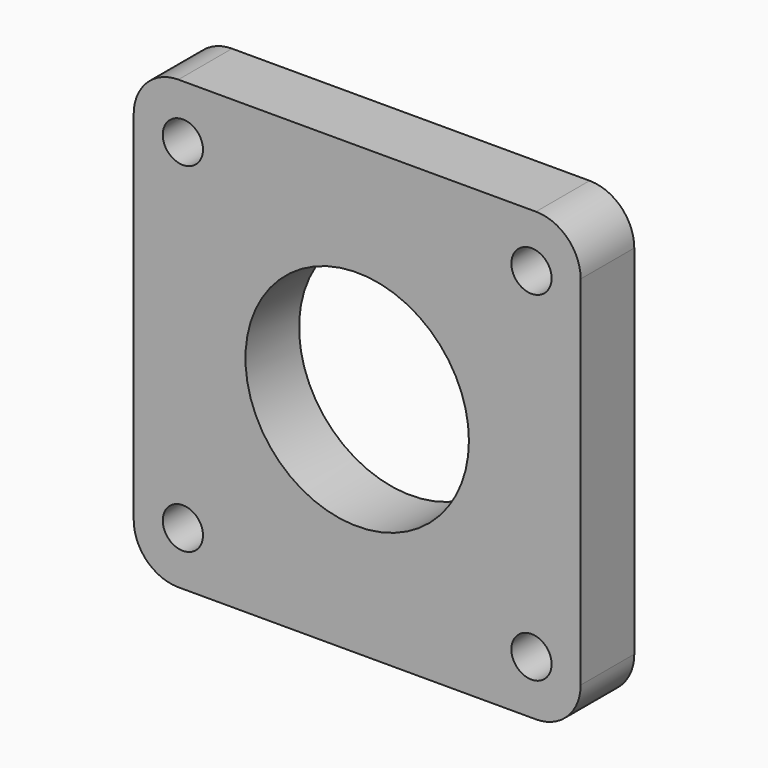
from build123d import *

# Parameters (mm, degrees)
F0_R     = 4.5
F0_R_2   = 25
F1_DEPTH = 15


with BuildPart() as f1:
    # F0 (on Front) → F1 (new body)
    with BuildSketch(Plane.XZ):
        with BuildLine():
            Line((40, 50), (-40, 50))
            ThreePointArc((-40, 50), (-47.071068, 47.071068), (-50, 40))
            Line((-50, 40), (-50, -40))
            ThreePointArc((-50, -40), (-47.071068, -47.071068), (-40, -50))
            Line((-40, -50), (40, -50))
            ThreePointArc((40, -50), (47.071068, -47.071068), (50, -40))
            Line((50, -40), (50, 40))
            ThreePointArc((50, 40), (47.071068, 47.071068), (40, 50))
        make_face()
        with Locations((-39, -38)):
            Circle(F0_R, mode=Mode.SUBTRACT)
        with Locations((39, -38)):
            Circle(F0_R, mode=Mode.SUBTRACT)
        with Locations((-39, 38)):
            Circle(F0_R, mode=Mode.SUBTRACT)
        Circle(F0_R_2, mode=Mode.SUBTRACT)
        with Locations((39, 38)):
            Circle(F0_R, mode=Mode.SUBTRACT)
    extrude(amount=F1_DEPTH)


solid = f1.part
